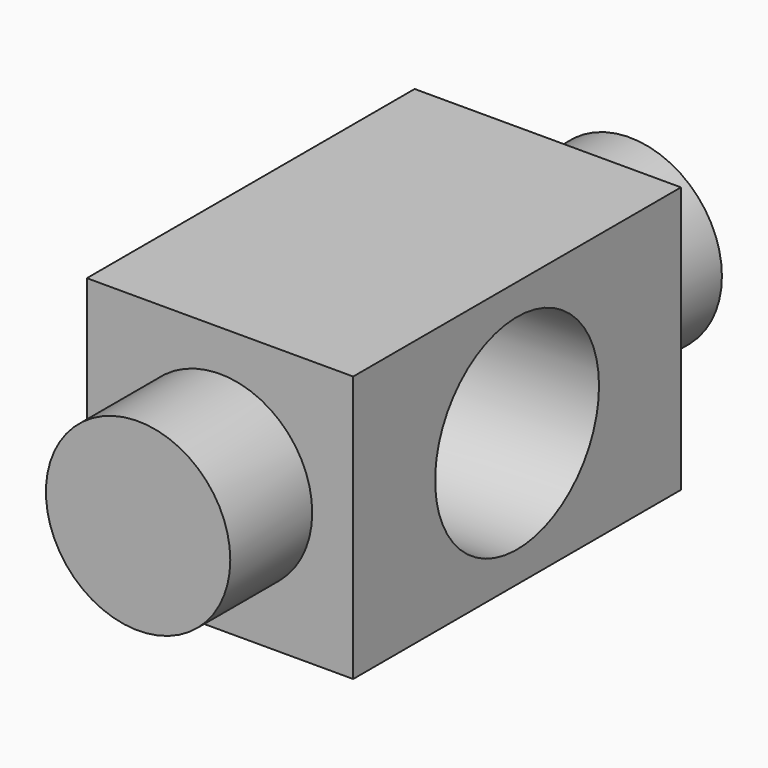
from build123d import *

# Parameters (mm, degrees)
F0_W          = 6.5
F0_H          = 6.5
F1_DEPTH      = 10
F2_R          = 2.25
F3_DEPTH      = 2.5
F3_DEPTH_BACK = 12.5
F4_R          = 2.5
F5_DEPTH      = 25


with BuildPart() as f1:
    # F0 (on Front) → F1 (new body)
    with BuildSketch(Plane.XZ):
        with Locations((3.25, 3.25)):
            Rectangle(F0_W, F0_H)
    extrude(amount=F1_DEPTH)

    # F2 (on face) → F3 (join, two sides)
    with BuildSketch(Plane.XZ.offset(10)) as f3_sk:
        with Locations((3.25, 3.25)):
            Circle(F2_R)
    extrude(amount=F3_DEPTH)
    extrude(f3_sk.sketch, amount=-F3_DEPTH_BACK)

    # F4 (on face) → F5 (cut)
    with BuildSketch(Plane.YZ.offset(6.5)):
        with Locations((-5, 3.25)):
            Circle(F4_R)
    extrude(amount=-F5_DEPTH, mode=Mode.SUBTRACT)


solid = f1.part
